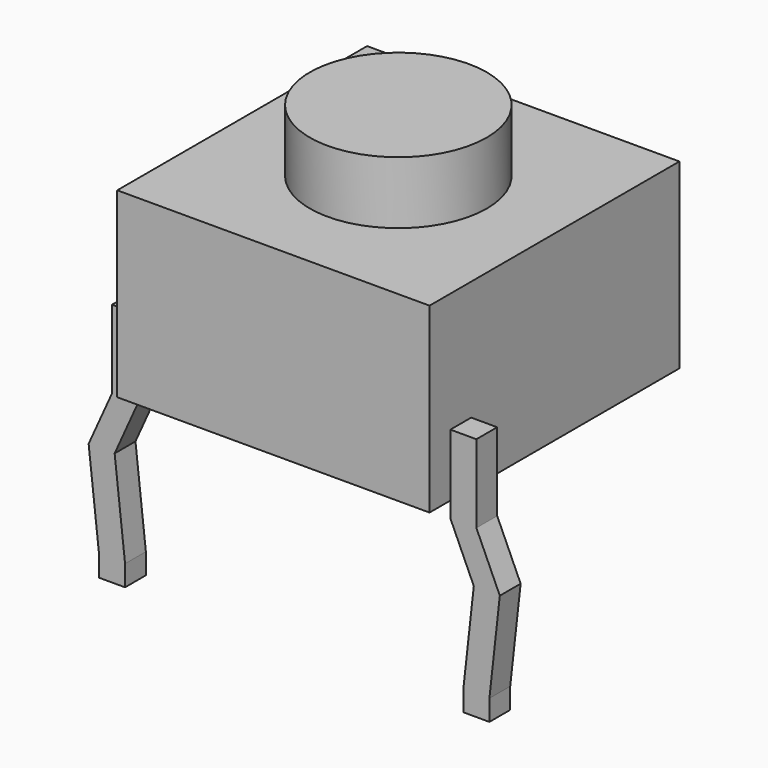
from build123d import *

# Parameters (mm, degrees)
SKETCH_W     = 6
SKETCH_H     = 6
PAD_DEPTH    = 3.5
SKETCH001_R  = 1.7
PAD001_DEPTH = 1.2
PAD002_DEPTH = 0.5


with BuildPart() as body:
    # Sketch → Pad (new body)
    with BuildSketch(Plane.XY):
        Rectangle(SKETCH_W, SKETCH_H)
    extrude(amount=PAD_DEPTH)

    # Sketch001 (on Face6 of Pad) → Pad001 (join)
    with BuildSketch(Plane.XY.offset(3.5)):
        Circle(SKETCH001_R)
    extrude(amount=PAD001_DEPTH)


with BuildPart() as foot:
    # Sketch002 → Pad002 (new body)
    with BuildSketch(Plane.XZ):
        Polygon((-3, 1.2), (-3.5, 1.2), (-3.5, -0.3), (-3.95, -1.299995), (-3.75, -3.099995), (-3.75, -3.5), (-3.25, -3.5), (-3.25, -3.099995), (-3.45, -1.299995), (-3, -0.299995), align=None)
    extrude(amount=PAD002_DEPTH)


with BuildPart() as foot_1:
    # Body001 placement: moved
    add(foot.part.moved(Location((0, 2.5, 0))))


with BuildPart() as part_mirroring001:
    # Part__Mirroring001: instance of foot
    add(foot_1.part.mirror(Plane(origin=(0, 0, 0), x_dir=(1, 0, 0), z_dir=(0, 1, 0))))


with BuildPart() as part_mirroring:
    # Part__Mirroring: instance of foot
    add(foot_1.part.mirror(Plane(origin=(0, 0, 0), x_dir=(0, -1, 0), z_dir=(1, 0, 0))))


with BuildPart() as part_mirroring002:
    # Part__Mirroring002: instance of Part__Mirroring
    add(part_mirroring.part.mirror(Plane(origin=(0, 0, 0), x_dir=(1, 0, 0), z_dir=(0, 1, 0))))


solid = Compound([body.part, part_mirroring001.part, part_mirroring002.part])
